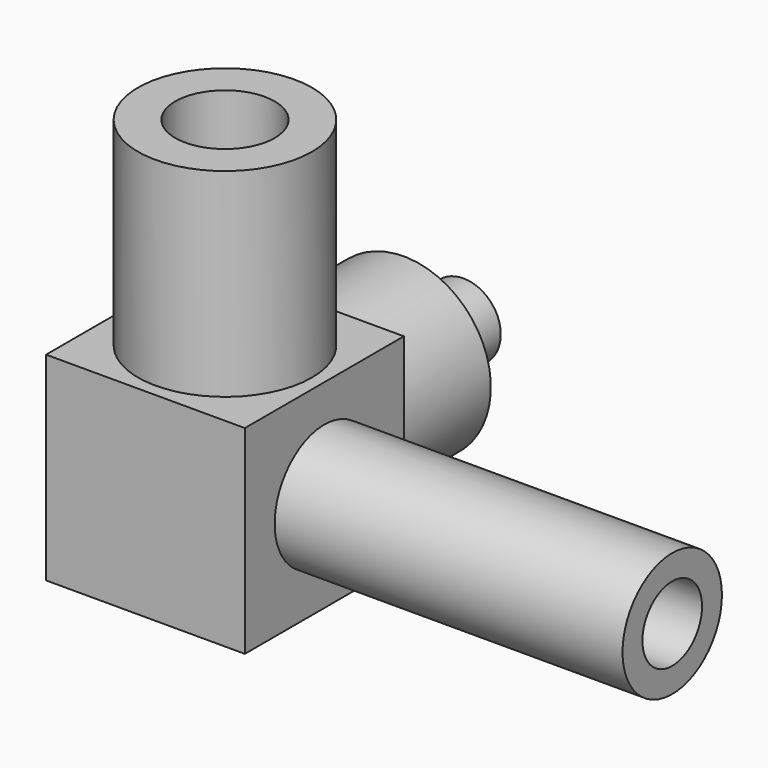
from build123d import *

# Parameters (mm, degrees)
F0_W      = 16
F0_H      = 16
F1_DEPTH  = 16
F2_R      = 3
F3_DEPTH  = 25
F2_R_2    = 5
F4_DEPTH  = 28
F5_R      = 4
F6_DEPTH  = 25
F5_R_2    = 7
F7_DEPTH  = 16
F8_R      = 3
F9_DEPTH  = 16
F8_R_2    = 7
F10_DEPTH = 10


with BuildPart() as f1:
    # F0 (on Top) → F1 (new body)
    with BuildSketch(Plane.XY):
        Rectangle(F0_W, F0_H)
    extrude(amount=F1_DEPTH)

    # F2 (on face) → F3 (cut)
    with BuildSketch(Plane.YZ.offset(8)):
        with Locations((0, 8)):
            Circle(F2_R)
    extrude(amount=-F3_DEPTH, mode=Mode.SUBTRACT)

    # F2 (on face) → F4 (join)
    with BuildSketch(Plane.YZ.offset(8)):
        with Locations((0, 8)):
            Circle(F2_R_2)
        with Locations((0, 8)):
            Circle(F2_R, mode=Mode.SUBTRACT)
    extrude(amount=F4_DEPTH)

    # F5 (on face) → F6 (cut)
    with BuildSketch(Plane.XY.offset(16)):
        Circle(F5_R)
    extrude(amount=-F6_DEPTH, mode=Mode.SUBTRACT)

    # F5 (on face) → F7 (join)
    with BuildSketch(Plane.XY.offset(16)):
        Circle(F5_R_2)
        Circle(F5_R, mode=Mode.SUBTRACT)
    extrude(amount=F7_DEPTH)

    # F8 (on face) → F9 (join)
    with BuildSketch(Plane(origin=(0, 8, 0), x_dir=(-1, 0, 0), z_dir=(0, 1, 0))):
        with Locations((0, 8)):
            Circle(F8_R)
    extrude(amount=F9_DEPTH)

    # F8 (on face) → F10 (join)
    with BuildSketch(Plane(origin=(0, 8, 0), x_dir=(-1, 0, 0), z_dir=(0, 1, 0))):
        with Locations((0, 8)):
            Circle(F8_R_2)
        with Locations((0, 8)):
            Circle(F8_R, mode=Mode.SUBTRACT)
    extrude(amount=F10_DEPTH)


solid = f1.part
